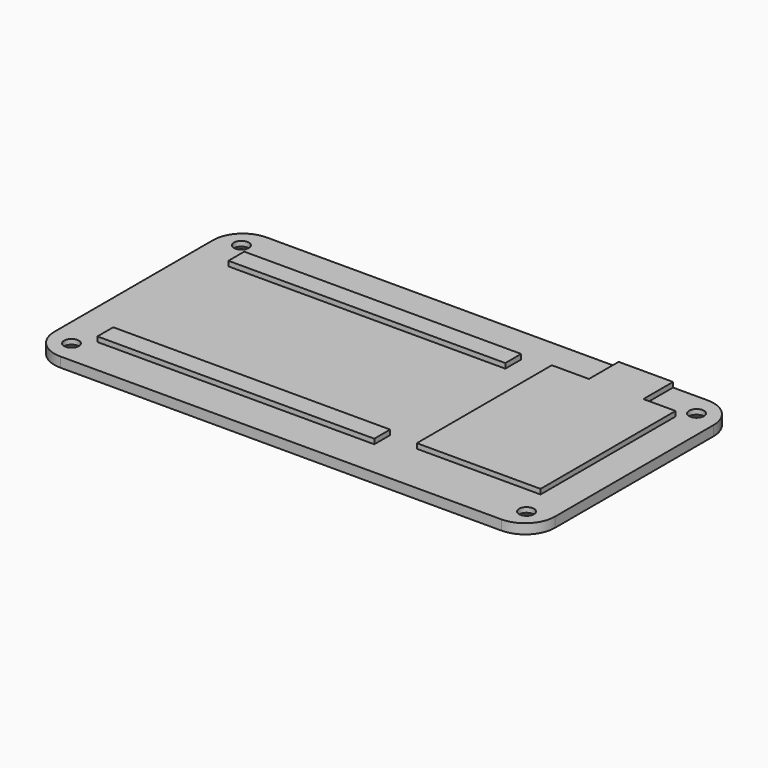
from build123d import *

# Parameters (mm, degrees)
SKETCH019_R     = 1.5
PAD009_DEPTH    = 2
SKETCH020_W     = 55.95
SKETCH020_H     = 4
PAD010_DEPTH    = 1
CHAMFER002_SIZE = 1


with BuildPart() as obj1:
    # Sketch019 → Pad009 (new body)
    with BuildSketch(Plane(origin=(0, 0, 0), x_dir=(-1, 0, 0), z_dir=(0, 0, -1))):
        with BuildLine():
            Line((-31, 45.1), (58.15, 45.1))
            ThreePointArc((64.15, 39.1), (62.392641, 43.342641), (58.15, 45.1))
            Line((64.15, 39.1), (64.15, -1.000024))
            ThreePointArc((58.15, -7), (62.392639, -5.242656), (64.15, -1.000024))
            Line((58.15, -7), (-31, -7))
            ThreePointArc((-37, -1), (-35.242641, -5.242641), (-31, -7))
            Line((-37, -1), (-37, 39.1))
            ThreePointArc((-31, 45.1), (-35.242641, 43.342641), (-37, 39.1))
        make_face()
        with Locations((-32.414214, 40.514214)):
            Circle(SKETCH019_R, mode=Mode.SUBTRACT)
        with Locations((59.564214, 40.514214)):
            Circle(SKETCH019_R, mode=Mode.SUBTRACT)
        with Locations((59.564214, -2.414214)):
            Circle(SKETCH019_R, mode=Mode.SUBTRACT)
        with Locations((-32.414214, -2.414214)):
            Circle(SKETCH019_R, mode=Mode.SUBTRACT)
    extrude(amount=PAD009_DEPTH)

    # Sketch020 (on Face14 of Pad009) → Pad010 (join)
    with BuildSketch(Plane(origin=(0, 0, -2), x_dir=(1, 0, 0), z_dir=(0, 0, -1))):
        with Locations((-28.675, -2.5)):
            Rectangle(SKETCH020_W, SKETCH020_H)
        with Locations((-28.675, -35.6)):
            Rectangle(SKETCH020_W, SKETCH020_H)
        Polygon((5.5, -33.6), (5.5, -37.6), (13, -37.6), (13, -45.1), (24, -45.1), (24, -37.6), (30.5, -37.6), (30.5, -33.6), (30.5, -4.5), (30.5, -3.5), (5.5, -3.5), (5.5, -4.5), align=None)
    extrude(amount=PAD010_DEPTH)

    # Chamfer002
    chamfer002_edges = [obj1.edges().sort_by_distance(p)[0] for p in [
        (-58.064214, -2.414214, 0),
        (-58.064214, 40.514214, 0),
        (33.914214, 40.514214, 0),
        (33.914214, -2.414214, 0),
    ]]
    chamfer(chamfer002_edges, length=CHAMFER002_SIZE)


with BuildPart() as part_mirroring:
    # Part__Mirroring: instance of obj1
    add(obj1.part.mirror(Plane(origin=(0, 0, 0), x_dir=(0, 1, 0), z_dir=(0, 0, 1))))


solid = part_mirroring.part
